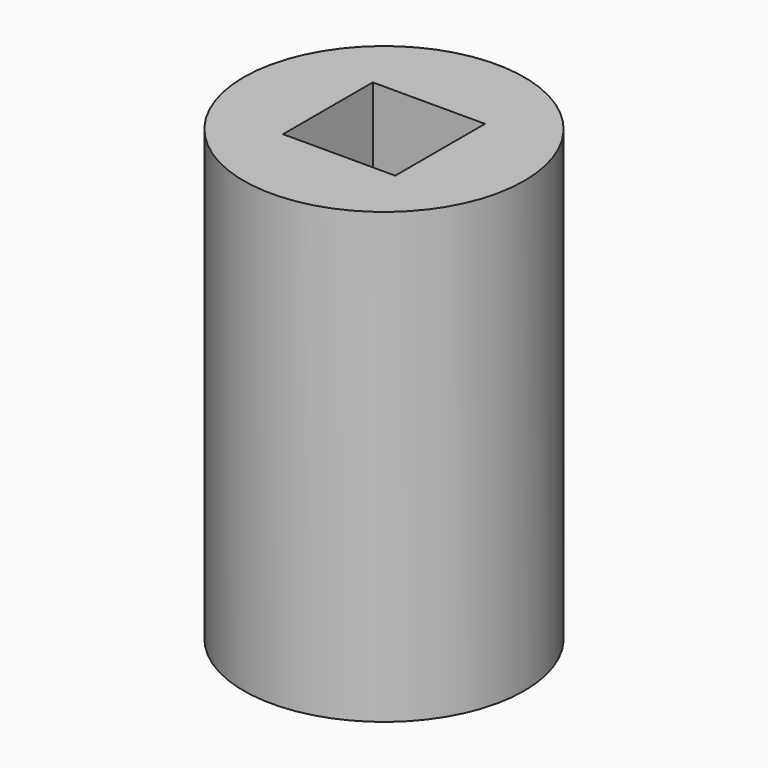
from build123d import *

# Parameters (mm, degrees)
F0_R     = 7.9375
F1_DEPTH = 25.4
F2_W     = 6.35
F2_H     = 6.35
F3_DEPTH = 11.43
F4_W     = 5.588
F4_H     = 2.667
F5_DEPTH = 12.7


with BuildPart() as f1:
    # F0 (on Top) → F1 (new body)
    with BuildSketch(Plane.XY):
        Circle(F0_R)
    extrude(amount=F1_DEPTH)

    # F2 (on face) → F3 (cut)
    with BuildSketch(Plane.XY.offset(25.4)):
        Rectangle(F2_W, F2_H)
    extrude(amount=-F3_DEPTH, mode=Mode.SUBTRACT)

    # F4 (on face) → F5 (cut)
    with BuildSketch(Plane(origin=(0, 0, 0), x_dir=(1, 0, 0), z_dir=(0, 0, -1))):
        Rectangle(F4_W, F4_H)
    extrude(amount=-F5_DEPTH, mode=Mode.SUBTRACT)


solid = f1.part
